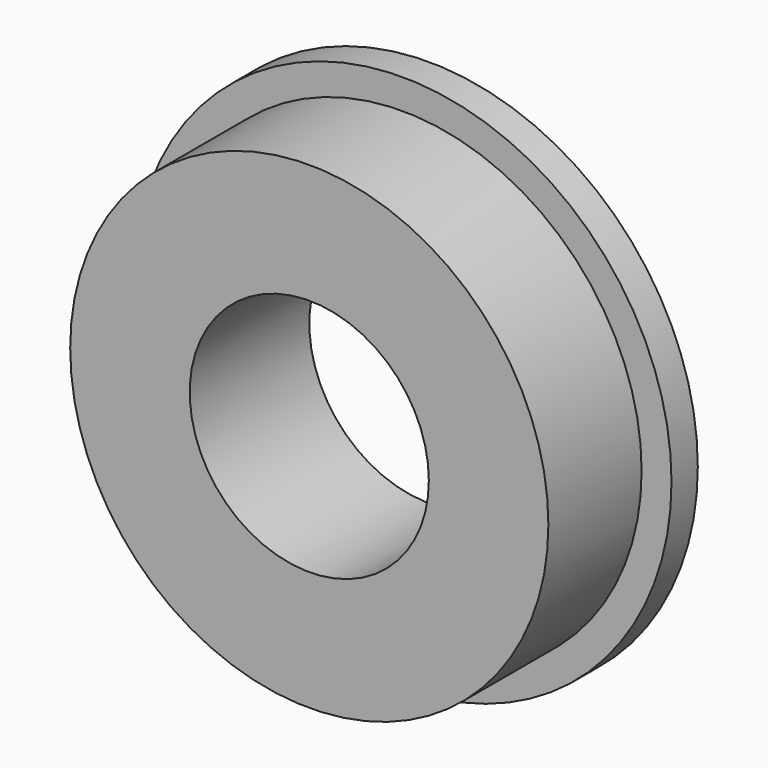
from build123d import *

# Parameters (mm, degrees)
F0_R     = 8
F0_R_2   = 4
F1_DEPTH = 5
F2_R     = 9
F2_R_2   = 8
F3_DEPTH = 1.1


with BuildPart() as f1:
    # F0 (on Front) → F1 (new body)
    with BuildSketch(Plane.XZ):
        Circle(F0_R)
        Circle(F0_R_2, mode=Mode.SUBTRACT)
    extrude(amount=F1_DEPTH)

    # F2 (on face) → F3 (join)
    with BuildSketch(Plane(origin=(0, 0, 0), x_dir=(-1, 0, 0), z_dir=(0, 1, 0))):
        Circle(F2_R)
        Circle(F2_R_2, mode=Mode.SUBTRACT)
    extrude(amount=-F3_DEPTH)


solid = f1.part
